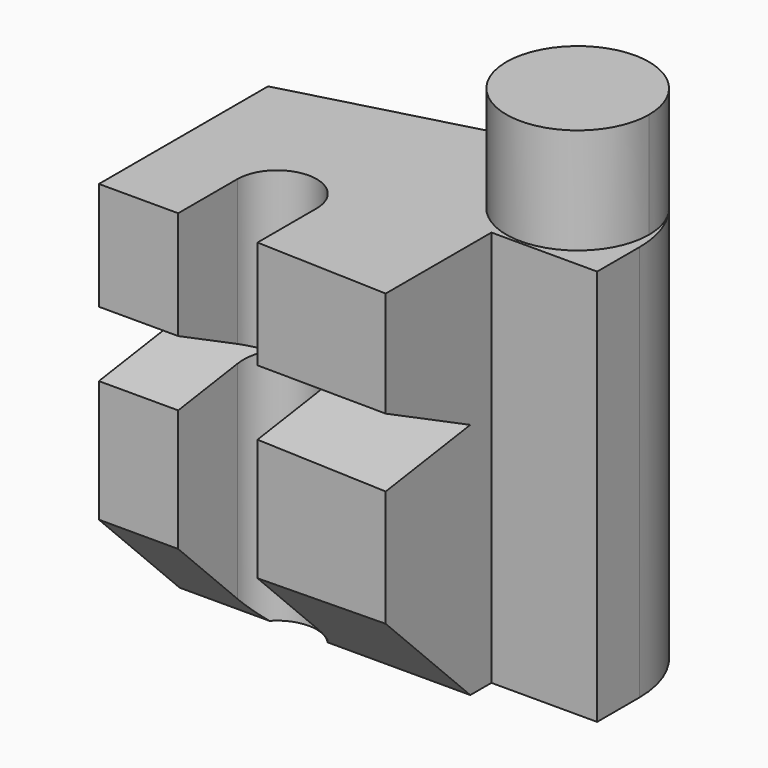
from build123d import *

# Parameters (mm, degrees)
F1_DEPTH = 75
F3_DEPTH = 75
F5_DEPTH = 75
F7_DEPTH = 20


with BuildPart() as f1:
    # F0 (on Top) → F1 (new body)
    with BuildSketch(Plane.XY):
        with BuildLine():
            Line((-37.5, 20.907951), (-37.5, -19.092049))
            Line((-37.5, -19.092049), (-22.5, -19.092049))
            Line((-22.5, -19.092049), (-22.5, -5.092049))
            ThreePointArc((-22.5, -5.092049), (-15, 2.407951), (-7.5, -5.092049))
            Line((-7.5, -5.092049), (-7.5, -19.092049))
            Line((-7.5, -19.092049), (17.483507, -20))
            Line((17.483507, -20), (17.483507, 5))
            Line((17.483507, 5), (37.483507, 5))
            Line((37.483507, 5), (37.483507, 15))
            ThreePointArc((37.483507, 15), (29.021611, 31.336222), (10.796291, 33.848903))
            Line((10.796291, 33.848903), (-37.5, 20.907951))
        make_face()
    extrude(amount=F1_DEPTH)

    # F2 (on face) → F3 (cut)
    with BuildSketch(Plane.YZ.offset(17.483507)):
        Polygon((-20, 42.03419), (0, 45), (-20, 55), align=None)
    extrude(amount=-F3_DEPTH, mode=Mode.SUBTRACT)

    # F4 (on face) → F5 (cut)
    with BuildSketch(Plane.YZ.offset(17.483507)):
        Polygon((-20, 20), (-20, 0), (0, 0), align=None)
    extrude(amount=-F5_DEPTH, mode=Mode.SUBTRACT)

    # F6 (on face) → F7 (join)
    with BuildSketch(Plane.XY.offset(75)):
        with BuildLine():
            ThreePointArc((33.248047, 27.307692), (9.84171, 14.607072), (36.106982, 19))
            ThreePointArc((36.106982, 19), (35.372255, 23.392928), (33.248047, 27.307692))
        make_face()
    extrude(amount=F7_DEPTH)


solid = f1.part
